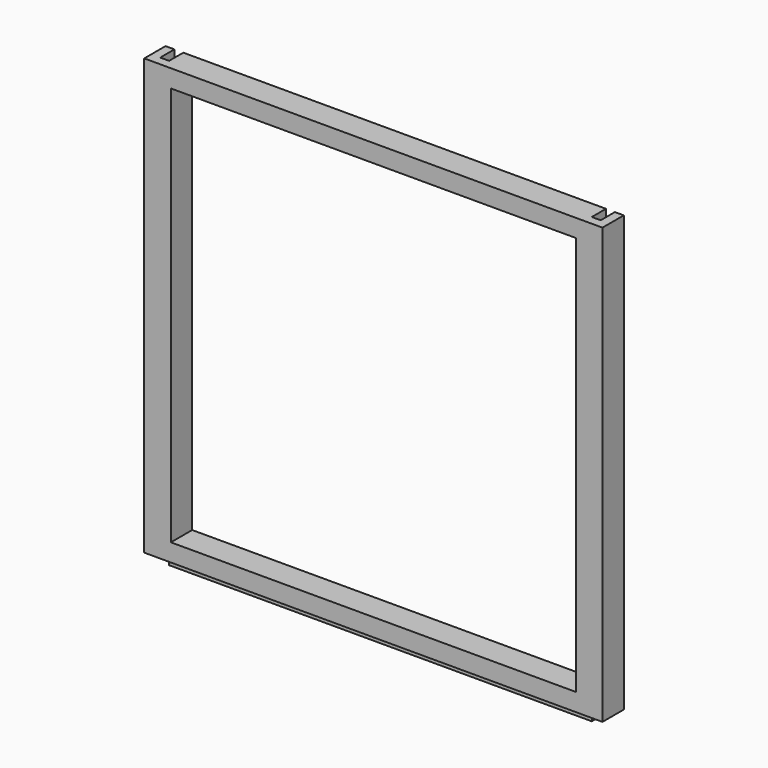
from build123d import *

# Parameters (mm, degrees)
F0_W      = 536
F0_H      = 500
F0_W_2    = 456
F0_H_2    = 450
F1_DEPTH  = 20
F2_W      = 10
F2_H      = 10
F3_DEPTH  = 536
F4_W      = 10
F4_H      = 500
F5_DEPTH  = 10
F6_W      = 10
F6_H      = 10
F7_DEPTH  = 20
F8_W      = 10
F8_H      = 10
F9_DEPTH  = 20
F10_W     = 10
F10_H     = 20
F11_DEPTH = 490
F12_DEPTH = 10
F13_W     = 10
F13_H     = 10
F14_DEPTH = 476


with BuildPart() as f1:
    # F0 (on Front) → F1 (new body)
    with BuildSketch(Plane.XZ):
        with Locations((-8.6522214115, 52.6769706468)):
            Rectangle(F0_W, F0_H)
        with Locations((-8.6522214115, 57.6769706468)):
            Rectangle(F0_W_2, F0_H_2, mode=Mode.SUBTRACT)
    extrude(amount=F1_DEPTH)

    # F2 (on face) → F3 (cut, through all)
    with BuildSketch(Plane(origin=(-276.6522214115, 0, 0), x_dir=(0, -1, 0), z_dir=(-1, 0, 0))):
        with Locations((15, -192.3230293532)):
            Rectangle(F2_W, F2_H)
    extrude(amount=-F3_DEPTH, mode=Mode.SUBTRACT)

    # F4 (on face) → F5 (cut)
    with BuildSketch(Plane(origin=(0, 0, 0), x_dir=(-1, 0, 0), z_dir=(0, 1, 0))):
        with Locations((251.6522214115, 52.6769706468)):
            Rectangle(F4_W, F4_H)
        with Locations((-234.3477785885, 52.6769706468)):
            Rectangle(F4_W, F4_H)
    extrude(amount=-F5_DEPTH, mode=Mode.SUBTRACT)

    # F6 (on face) → F7 (cut, through all)
    with BuildSketch(Plane.YZ.offset(259.3477785885)):
        with Locations((-5, -192.3230293532)):
            Rectangle(F6_W, F6_H)
    extrude(amount=-F7_DEPTH, mode=Mode.SUBTRACT)

    # F8 (on face) → F9 (cut, through all)
    with BuildSketch(Plane(origin=(-276.6522214115, 0, 0), x_dir=(0, -1, 0), z_dir=(-1, 0, 0))):
        with Locations((5, -192.3230293532)):
            Rectangle(F8_W, F8_H)
    extrude(amount=-F9_DEPTH, mode=Mode.SUBTRACT)

    # F10 (on face) → F11 (cut, through all)
    with BuildSketch(Plane.XY.offset(302.6769706468)):
        with Locations((-271.6522214115, -10)):
            Rectangle(F10_W, F10_H)
        with Locations((254.3477785885, -10)):
            Rectangle(F10_W, F10_H)
    extrude(amount=-F11_DEPTH, mode=Mode.SUBTRACT)

    # F12 (add): faces of the model
    f12_faces = [f1.faces().sort_by_distance(p)[0] for p in [
        (222.4443301749, 0, 52.6769706468),
        (244.3477785885, 0, 57.6769706468),
        (-261.6522214115, 0, 57.6769706468),
    ]]
    extrude(f12_faces, amount=F12_DEPTH)

    # F13 (on face) → F14 (cut, through all)
    with BuildSketch(Plane.YZ.offset(229.3477785885)):
        with Locations((5, -192.3230293532)):
            Rectangle(F13_W, F13_H)
    extrude(amount=-F14_DEPTH, mode=Mode.SUBTRACT)


solid = f1.part
